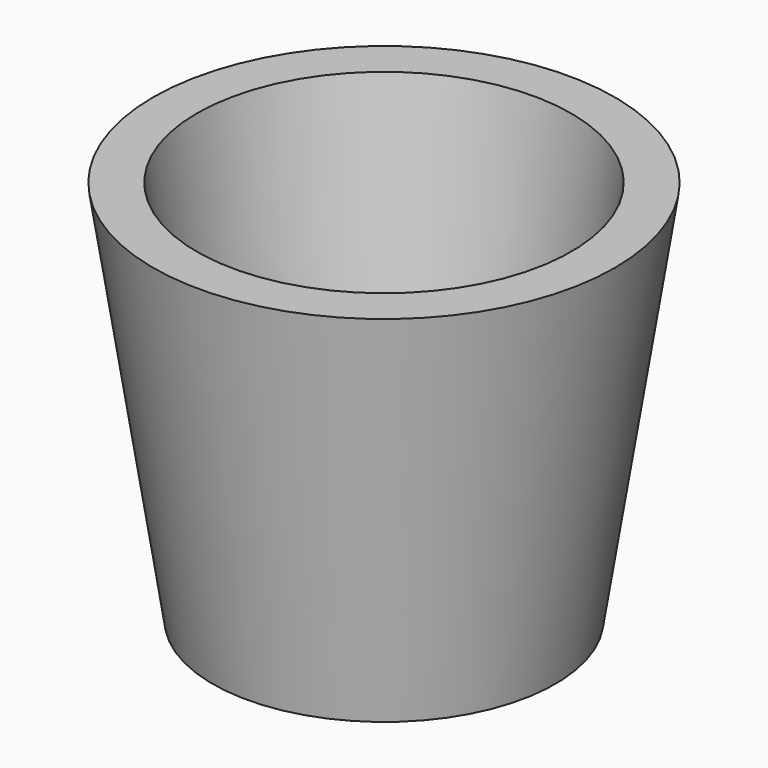
from build123d import *

# Parameters (mm, degrees)
F2_R     = 4.111133
F2_R_2   = 4.461285
F2_R_3   = 3.810893
F2_R_4   = 4.028629
F3_DEPTH = 25.4


with BuildPart() as f1:
    # F0 (on Front) → F1 (revolve)
    with BuildSketch(Plane.XZ):
        Polygon((0, 0), (0, 6.544597), (-19.63379, 6.544597), (-26.086209, 53.739436), (-32.169919, 53.739436), (-23.873951, 0), align=None)
    revolve(axis=Axis((0, 0, 3.272298), (0, 0, 1)))

    # F2 (on face) → F3 (cut)
    with BuildSketch(Plane(origin=(0, 0, 0), x_dir=(1, 0, 0), z_dir=(0, 0, -1))):
        Circle(F2_R)
        with Locations((-7.724484, 12.864927)):
            Circle(F2_R_2)
        with Locations((12.194786, 0)):
            Circle(F2_R_3)
        with Locations((-10.441621, -11.505742)):
            Circle(F2_R_4)
    extrude(amount=-F3_DEPTH, mode=Mode.SUBTRACT)


solid = f1.part
